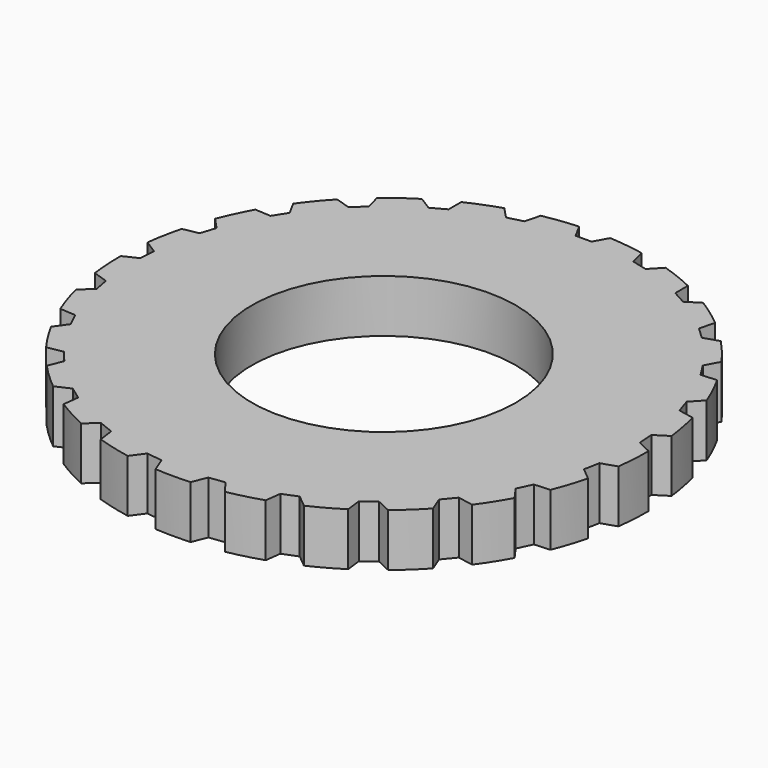
from build123d import *

# Parameters (mm, degrees)
F0_R     = 12.5
F1_DEPTH = 5


with BuildPart() as f1:
    # F0 (on Top) → F1 (new body)
    with BuildSketch(Plane.XY):
        with BuildLine():
            Line((-6.606558, 22.71504), (-7.637189, 23.804902))
            ThreePointArc((-7.637189, 23.804902), (-9.203114, 23.244412), (-10.728305, 22.581042))
            Line((-10.728305, 22.581042), (-10.733541, 21.081051))
            Line((-10.733541, 21.081051), (-12.048001, 20.358421))
            Line((-12.048001, 20.358421), (-13.317291, 21.157735))
            ThreePointArc((-13.317291, 21.157735), (-14.694631, 20.225425), (-16.006933, 19.203596))
            Line((-16.006933, 19.203596), (-15.638972, 17.749428))
            Line((-15.638972, 17.749428), (-16.732425, 16.722607))
            Line((-16.732425, 16.722607), (-18.160619, 17.18115))
            ThreePointArc((-18.160619, 17.18115), (-19.262831, 15.9356), (-20.279786, 14.619518))
            Line((-20.279786, 14.619518), (-19.561748, 13.302543))
            Line((-19.561748, 13.302543), (-20.365488, 12.036051))
            Line((-20.365488, 12.036051), (-21.862848, 12.125011))
            ThreePointArc((-21.862848, 12.125011), (-22.620676, 10.644482), (-23.278385, 9.116841))
            Line((-23.278385, 9.116841), (-22.255388, 8.01981))
            Line((-22.255388, 8.01981), (-22.718913, 6.593226))
            Line((-22.718913, 6.593226), (-24.191354, 6.307012))
            ThreePointArc((-24.191354, 6.307012), (-24.557181, 4.684533), (-24.814318, 3.04132))
            Line((-24.814318, 3.04132), (-23.550639, 2.233164))
            Line((-23.550639, 2.233164), (-23.644825, 0.736123))
            Line((-23.644825, 0.736123), (-24.999828, 0.092721))
            ThreePointArc((-24.999828, 0.092721), (-24.950668, -1.569763), (-24.791076, -3.225299))
            Line((-24.791076, -3.225299), (-23.366118, -3.693801))
            Line((-23.366118, -3.693801), (-23.085046, -5.167232))
            Line((-23.085046, -5.167232), (-24.237471, -6.127397))
            ThreePointArc((-24.237471, -6.127397), (-23.776413, -7.725425), (-23.21012, -9.28926))
            Line((-23.21012, -9.28926), (-21.713417, -9.388671))
            Line((-21.713417, -9.388671), (-21.074748, -10.745911))
            Line((-21.074748, -10.745911), (-21.952185, -11.962507))
            ThreePointArc((-21.952185, -11.962507), (-21.108198, -13.39567), (-20.170786, -14.769543))
            Line((-20.170786, -14.769543), (-18.696383, -14.493616))
            Line((-18.696383, -14.493616), (-17.740247, -15.649386))
            Line((-17.740247, -15.649386), (-18.287562, -17.045969))
            ThreePointArc((-18.287562, -17.045969), (-17.113678, -18.224216), (-15.864048, -19.321801))
            Line((-15.864048, -19.321801), (-14.504586, -18.687874))
            Line((-14.504586, -18.687874), (-13.29106, -19.569551))
            Line((-13.29106, -19.569551), (-13.473864, -21.058371))
            ThreePointArc((-13.473864, -21.058371), (-12.043842, -21.907667), (-10.560513, -22.659999))
            Line((-10.560513, -22.659999), (-9.401412, -21.707904))
            Line((-9.401412, -21.707904), (-8.006748, -22.26009))
            Line((-8.006748, -22.26009), (-7.813554, -23.747597))
            ThreePointArc((-7.813554, -23.747597), (-6.217247, -24.214579), (-4.593422, -24.574387))
            Line((-4.593422, -24.574387), (-3.707514, -23.363946))
            Line((-3.707514, -23.363946), (-2.219342, -23.551946))
            Line((-2.219342, -23.551946), (-1.66229, -24.944675))
            ThreePointArc((-1.66229, -24.944675), (0, -25), (1.66229, -24.944675))
            Line((1.66229, -24.944675), (2.219342, -23.551946))
            Line((2.219342, -23.551946), (3.707514, -23.363946))
            Line((3.707514, -23.363946), (4.593422, -24.574387))
            ThreePointArc((4.593422, -24.574387), (6.217247, -24.214579), (7.813554, -23.747597))
            Line((7.813554, -23.747597), (8.006748, -22.26009))
            Line((8.006748, -22.26009), (9.401412, -21.707904))
            Line((9.401412, -21.707904), (10.560513, -22.659999))
            ThreePointArc((10.560513, -22.659999), (12.043842, -21.907667), (13.473864, -21.058371))
            Line((13.473864, -21.058371), (13.29106, -19.569551))
            Line((13.29106, -19.569551), (14.504586, -18.687874))
            Line((14.504586, -18.687874), (15.864048, -19.321801))
            ThreePointArc((15.864048, -19.321801), (17.113678, -18.224216), (18.287562, -17.045969))
            Line((18.287562, -17.045969), (17.740247, -15.649386))
            Line((17.740247, -15.649386), (18.696383, -14.493616))
            Line((18.696383, -14.493616), (20.170786, -14.769543))
            ThreePointArc((20.170786, -14.769543), (21.108198, -13.39567), (21.952185, -11.962507))
            Line((21.952185, -11.962507), (21.074748, -10.745911))
            Line((21.074748, -10.745911), (21.713417, -9.388671))
            Line((21.713417, -9.388671), (23.21012, -9.28926))
            ThreePointArc((23.21012, -9.28926), (23.776413, -7.725425), (24.237471, -6.127397))
            Line((24.237471, -6.127397), (23.085046, -5.167232))
            Line((23.085046, -5.167232), (23.366118, -3.693801))
            Line((23.366118, -3.693801), (24.791076, -3.225299))
            ThreePointArc((24.791076, -3.225299), (24.950668, -1.569763), (24.999828, 0.092721))
            Line((24.999828, 0.092721), (23.644825, 0.736123))
            Line((23.644825, 0.736123), (23.550639, 2.233164))
            Line((23.550639, 2.233164), (24.814318, 3.04132))
            ThreePointArc((24.814318, 3.04132), (24.557181, 4.684533), (24.191354, 6.307012))
            Line((24.191354, 6.307012), (22.718913, 6.593226))
            Line((22.718913, 6.593226), (22.255388, 8.01981))
            Line((22.255388, 8.01981), (23.278385, 9.116841))
            ThreePointArc((23.278385, 9.116841), (22.620676, 10.644482), (21.862848, 12.125011))
            Line((21.862848, 12.125011), (20.365488, 12.036051))
            Line((20.365488, 12.036051), (19.561748, 13.302543))
            Line((19.561748, 13.302543), (20.279786, 14.619518))
            ThreePointArc((20.279786, 14.619518), (19.262831, 15.9356), (18.160619, 17.18115))
            Line((18.160619, 17.18115), (16.732425, 16.722607))
            Line((16.732425, 16.722607), (15.638972, 17.749428))
            Line((15.638972, 17.749428), (16.006933, 19.203596))
            ThreePointArc((16.006933, 19.203596), (14.694631, 20.225425), (13.317291, 21.157735))
            Line((13.317291, 21.157735), (12.048001, 20.358421))
            Line((12.048001, 20.358421), (10.733541, 21.081051))
            Line((10.733541, 21.081051), (10.728305, 22.581042))
            ThreePointArc((10.728305, 22.581042), (9.203114, 23.244412), (7.637189, 23.804902))
            Line((7.637189, 23.804902), (6.606558, 22.71504))
            Line((6.606558, 22.71504), (5.153683, 23.088074))
            Line((5.153683, 23.088074), (4.775579, 24.539638))
            ThreePointArc((4.775579, 24.539638), (3.133331, 24.802868), (1.477214, 24.956319))
            Line((1.477214, 24.956319), (0.75, 23.644389))
            Line((0.75, 23.644389), (-0.75, 23.644389))
            Line((-0.75, 23.644389), (-1.477214, 24.956319))
            ThreePointArc((-1.477214, 24.956319), (-3.133331, 24.802868), (-4.775579, 24.539638))
            Line((-4.775579, 24.539638), (-5.153683, 23.088074))
            Line((-5.153683, 23.088074), (-6.606558, 22.71504))
        make_face()
        Circle(F0_R, mode=Mode.SUBTRACT)
    extrude(amount=F1_DEPTH)


solid = f1.part
